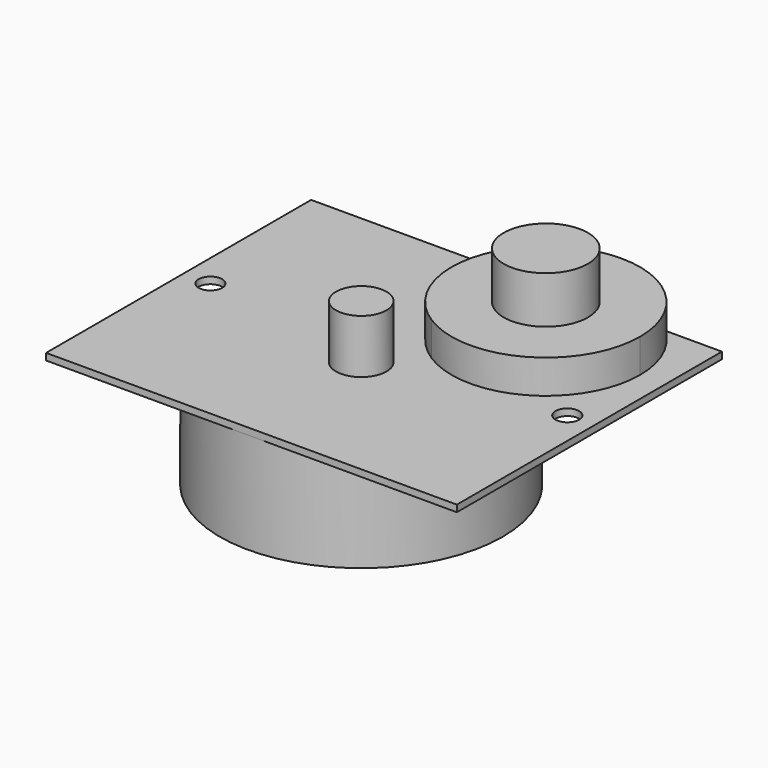
from build123d import *

# Parameters (mm, degrees)
F0_W     = 61
F0_H     = 49.2
F1_DEPTH = 1
F2_D     = 3.5
F3_R     = 3.75
F4_DEPTH = 8
F3_R_2   = 6.25
F5_DEPTH = 5
F6_R     = 21
F7_DEPTH = 15
F8_R     = 6.25
F9_DEPTH = 7


with BuildPart() as f1:
    # F0 (on Top) → F1 (new body)
    with BuildSketch(Plane.XY):
        with Locations((30.5, 24.6)):
            Rectangle(F0_W, F0_H)
    extrude(amount=F1_DEPTH)

    # F2 (through all)
    with Locations(Plane(origin=(0, 0, 0), x_dir=(1, 0, 0), z_dir=(0, 0, -1))):
        with Locations((4, -25.5), (57, -25.5)):
            Hole(F2_D / 2)

    # F3 (on face) → F4 (join)
    with BuildSketch(Plane.XY.offset(1)):
        with Locations((30, 21)):
            Circle(F3_R)
    extrude(amount=F4_DEPTH)

    # F3 (on face) → F5 (join)
    with BuildSketch(Plane.XY.offset(1)):
        with BuildLine():
            ThreePointArc((52.5101295887, 49.2), (43.25, 52.7), (33.9898704113, 49.2))
            Line((33.9898704113, 49.2), (52.5101295887, 49.2))
        make_face()
        with BuildLine():
            ThreePointArc((33.9898704113, 49.2), (29.2944841953, 37.5848414357), (35.7748003642, 26.8627118644))
            ThreePointArc((35.7748003642, 26.8627118644), (43.25, 30.5), (50.7251996358, 26.8627118644))
            ThreePointArc((50.7251996358, 26.8627118644), (55.5107665931, 31.9417751924), (57.25, 38.7))
            ThreePointArc((57.25, 38.7), (56.0101295887, 44.4601295887), (52.5101295887, 49.2))
            Line((52.5101295887, 49.2), (33.9898704113, 49.2))
        make_face()
        with Locations((43.25, 38.7)):
            Circle(F3_R_2, mode=Mode.SUBTRACT)
        with Locations((43.25, 38.7)):
            Circle(F3_R_2)
        with BuildLine():
            ThreePointArc((50.7251996358, 26.8627118644), (43.25, 30.5), (35.7748003642, 26.8627118644))
            ThreePointArc((35.7748003642, 26.8627118644), (43.25, 24.7), (50.7251996358, 26.8627118644))
        make_face()
    extrude(amount=F5_DEPTH)

    # F6 (on face) → F7 (join)
    with BuildSketch(Plane.XY):
        with Locations((30, 21)):
            Circle(F6_R)
    extrude(amount=-F7_DEPTH)

    # F8 (on face) → F9 (join)
    with BuildSketch(Plane.XY.offset(6)):
        with Locations((43.25, 38.7)):
            Circle(F8_R)
    extrude(amount=F9_DEPTH)


solid = f1.part
